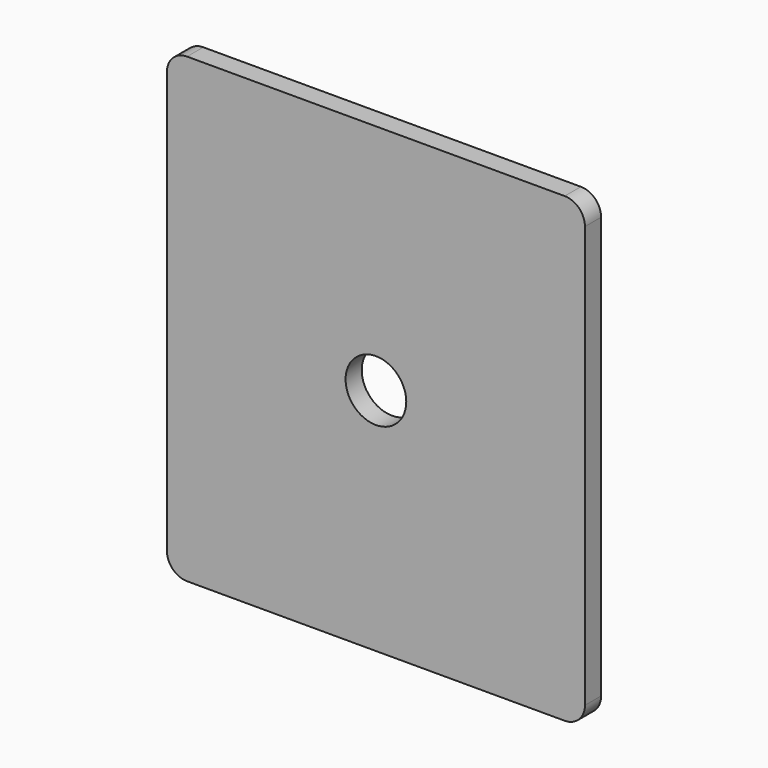
from build123d import *

# Parameters (mm, degrees)
F1_DEPTH = 3
F2_R     = 4.5
F3_DEPTH = 25


with BuildPart() as f1:
    # F0 (on Front) → F1 (new body)
    with BuildSketch(Plane.XZ):
        with BuildLine():
            Line((14.135233, 37.539159), (-41.864767, 37.539159))
            ThreePointArc((-41.864767, 37.539159), (-43.986087, 36.660479), (-44.864767, 34.539159))
            Line((-44.864767, 34.539159), (-44.864767, -27.960841))
            ThreePointArc((-44.864767, -27.960841), (-43.986087, -30.082161), (-41.864767, -30.960841))
            Line((-41.864767, -30.960841), (14.135233, -30.960841))
            ThreePointArc((14.135233, -30.960841), (16.256553, -30.082161), (17.135233, -27.960841))
            Line((17.135233, -27.960841), (17.135233, 34.539159))
            ThreePointArc((17.135233, 34.539159), (16.256553, 36.660479), (14.135233, 37.539159))
        make_face()
    extrude(amount=F1_DEPTH)

    # F2 (on face) → F3 (cut)
    with BuildSketch(Plane.XZ.offset(3)):
        with Locations((-13.864767, 3.039159)):
            Circle(F2_R)
    extrude(amount=-F3_DEPTH, mode=Mode.SUBTRACT)


solid = f1.part
